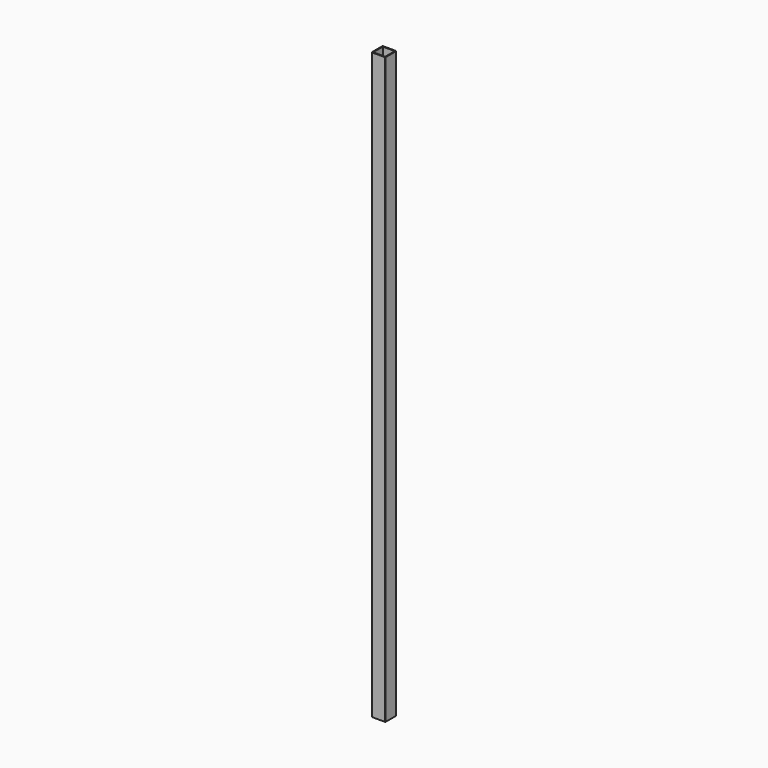
from build123d import *

# Parameters (mm, degrees)
SKETCH_W   = 25
SKETCH_H   = 25
SKETCH_W_2 = 22
SKETCH_H_2 = 22
PAD_DEPTH  = 1068
FILLET_R   = 0.74


with BuildPart() as part:
    # Sketch → Pad (new body)
    with BuildSketch(Plane.XY):
        with Locations((12.5, 12.5)):
            Rectangle(SKETCH_W, SKETCH_H)
        with Locations((12.5, 12.5)):
            Rectangle(SKETCH_W_2, SKETCH_H_2, mode=Mode.SUBTRACT)
    extrude(amount=PAD_DEPTH)

    # Fillet
    fillet_edges = [part.edges().sort_by_distance(p)[0] for p in [
        (25, 0, 534),
        (0, 0, 534),
        (25, 25, 534),
        (0, 25, 534),
    ]]
    fillet(fillet_edges, radius=FILLET_R)


solid = part.part
